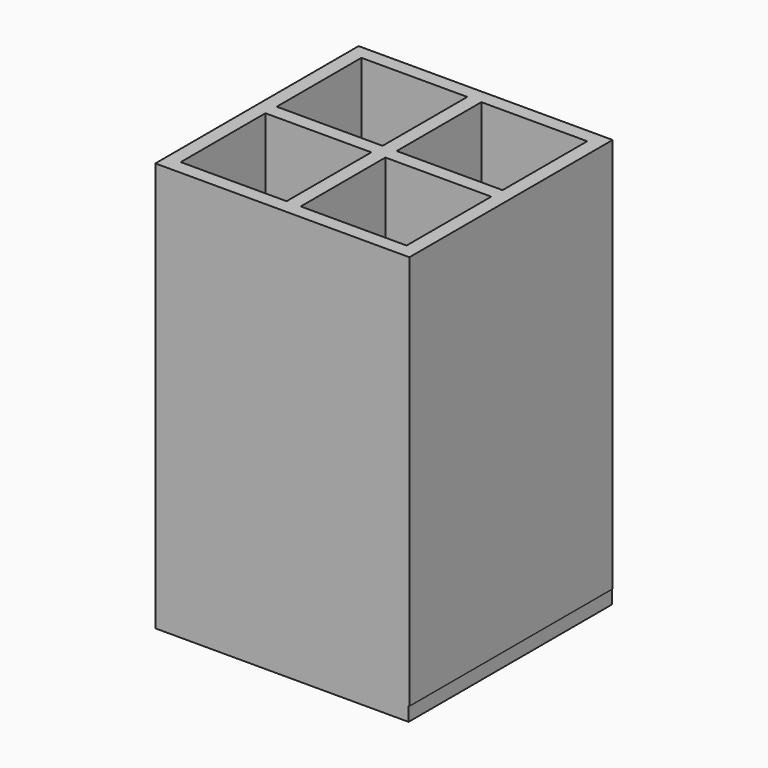
from build123d import *

# Parameters (mm, degrees)
F0_W      = 57.15
F0_H      = 88.9
F1_DEPTH  = 3.175
F2_W      = 3.175
F2_H      = 88.9
F3_DEPTH  = 50.8
F4_W      = 3.175
F4_H      = 88.9
F5_DEPTH  = 50.8
F6_W      = 3.175
F6_H      = 88.9
F7_DEPTH  = 50.8
F7_FACE_W = 3.175
F7_FACE_H = 88.9
F8_DEPTH  = 50.8
F9_W      = 3.175
F9_H      = 88.9
F10_DEPTH = 23.8125
F11_W     = 50.8
F11_H     = 88.9
F12_DEPTH = 3.175
F13_W     = 3.175
F13_H     = 88.9
F14_DEPTH = 23.8125
F15_W     = 57.15
F15_H     = 88.9
F16_DEPTH = 3.175
F17_W     = 56.964433
F17_H     = 57.15
F18_DEPTH = 3.175


with BuildPart() as f1:
    # F0 (on Front) → F1 (new body)
    with BuildSketch(Plane.XZ):
        Rectangle(F0_W, F0_H)
    extrude(amount=F1_DEPTH)

    # F2 (on face) → F3 (join)
    with BuildSketch(Plane(origin=(0, 0, 0), x_dir=(-1, 0, 0), z_dir=(0, 1, 0))):
        with Locations((-26.9875, 0)):
            Rectangle(F2_W, F2_H)
    extrude(amount=F3_DEPTH)

    # F4 (on face) → F5 (join)
    with BuildSketch(Plane(origin=(0, 0, 0), x_dir=(-1, 0, 0), z_dir=(0, 1, 0))):
        with Locations((26.9875, 0)):
            Rectangle(F4_W, F4_H)
    extrude(amount=F5_DEPTH)

    # F6 (on face) → F7 (join)
    with BuildSketch(Plane(origin=(0, 0, 0), x_dir=(-1, 0, 0), z_dir=(0, 1, 0))):
        Rectangle(F6_W, F6_H)
    extrude(amount=F7_DEPTH)

    # F7_face (on face) → F8 (cut)
    with BuildSketch(Plane(origin=(0, 50.8, 0), x_dir=(-1, 0, 0), z_dir=(0, 1, 0))):
        Rectangle(F7_FACE_W, F7_FACE_H)
    extrude(amount=-F8_DEPTH, mode=Mode.SUBTRACT)



with BuildPart() as f10:
    # F9 (on face) → F10 (new body)
    with BuildSketch(Plane(origin=(0, 26.9875, 0), x_dir=(-1, 0, 0), z_dir=(0, 1, 0))):
        Rectangle(F9_W, F9_H)
    extrude(amount=F10_DEPTH)


with BuildPart() as f1_1:
    add(f1.part)

    add(f10.part)  # F12 merges F10
    # F11 (on face) → F12 (join)
    with BuildSketch(Plane(origin=(0, 23.8125, 0), x_dir=(-1, 0, 0), z_dir=(0, 1, 0))):
        Rectangle(F11_W, F11_H)
    extrude(amount=F12_DEPTH)

    # F13 (on face) → F14 (join)
    with BuildSketch(Plane(origin=(0, 0, 0), x_dir=(-1, 0, 0), z_dir=(0, 1, 0))):
        Rectangle(F13_W, F13_H)
    extrude(amount=F14_DEPTH)

    # F15 (on face) → F16 (join)
    with BuildSketch(Plane(origin=(0, 50.8, 0), x_dir=(-1, 0, 0), z_dir=(0, 1, 0))):
        Rectangle(F15_W, F15_H)
    extrude(amount=F16_DEPTH)

    # F17 (on face) → F18 (join)
    with BuildSketch(Plane(origin=(0, 0, -44.45), x_dir=(1, 0, 0), z_dir=(0, 0, -1))):
        with Locations((-0.092783, -25.4)):
            Rectangle(F17_W, F17_H)
    extrude(amount=F18_DEPTH)


solid = f1_1.part
